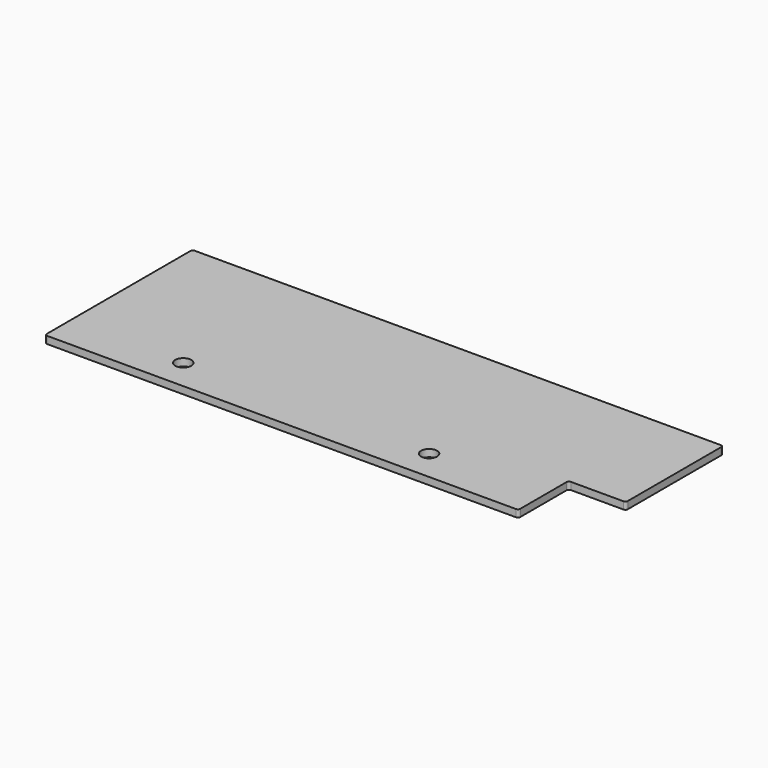
from build123d import *

# Parameters (mm, degrees)
SKETCH_R  = 3.302
PAD_DEPTH = 3


with BuildPart() as part:
    # Sketch → Pad (new body)
    with BuildSketch(Plane.XY):
        with BuildLine():
            Line((0, 75.2), (0, 1))
            ThreePointArc((0, 1), (0.292893, 0.292893), (1, 0))
            Line((1, 0), (194.7, 0))
            ThreePointArc((194.7, 0), (195.407107, 0.292893), (195.7, 1))
            Line((195.7, 1), (195.7, 24.9))
            ThreePointArc((196.7, 25.9), (195.992893, 25.607107), (195.7, 24.9))
            Line((196.7, 25.9), (218.4, 25.9))
            ThreePointArc((218.4, 25.9), (219.107107, 26.192893), (219.4, 26.9))
            Line((219.4, 26.9), (219.4, 75.2))
            ThreePointArc((219.4, 75.2), (219.107107, 75.907107), (218.4, 76.2))
            Line((218.4, 76.2), (1, 76.2))
            ThreePointArc((1, 76.2), (0.292893, 75.907107), (0, 75.2))
        make_face()
        with Locations((47.05, 12.7)):
            Circle(SKETCH_R, mode=Mode.SUBTRACT)
        with Locations((148.65, 12.7)):
            Circle(SKETCH_R, mode=Mode.SUBTRACT)
    extrude(amount=PAD_DEPTH)


solid = part.part
